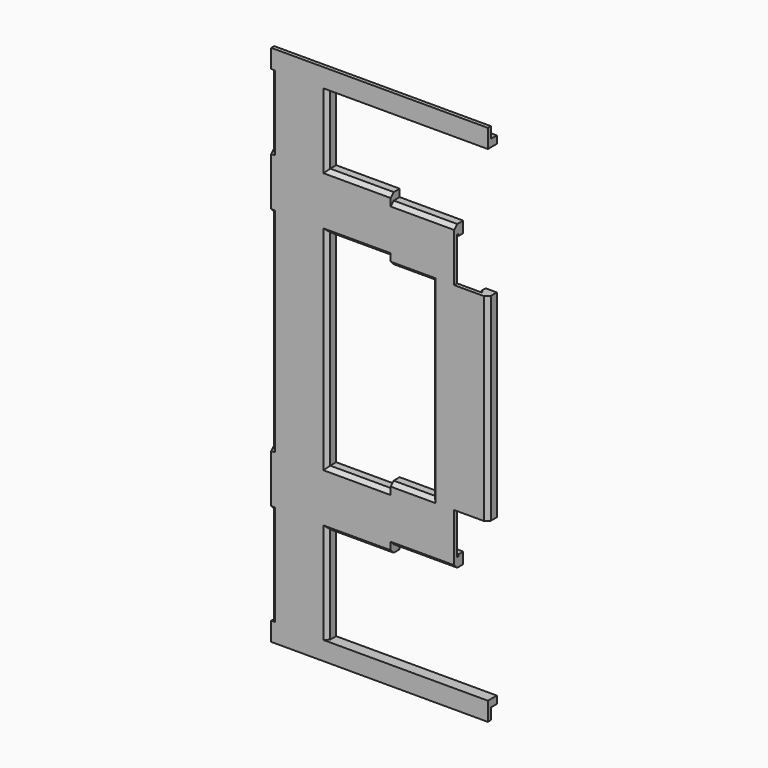
from build123d import *

# Parameters (mm, degrees)
PAD_DEPTH       = 140
SKETCH001_W     = 3
SKETCH001_H     = 5
PAD001_DEPTH    = 58
SKETCH002_W     = 2
SKETCH002_H     = 3
POCKET_DEPTH    = 58
SKETCH003_W     = 3
SKETCH003_H     = 5
PAD002_DEPTH    = 58
SKETCH004_W     = 2
SKETCH004_H     = 3
POCKET001_DEPTH = 58
PAD003_DEPTH    = 32
PAD004_DEPTH    = 32
PAD005_DEPTH    = 17
PAD006_DEPTH    = 17
PAD007_DEPTH    = 53
POCKET002_DEPTH = 134
POCKET003_DEPTH = 57
POCKET004_DEPTH = 32
POCKET005_DEPTH = 17
POCKET006_DEPTH = 17
POCKET007_DEPTH = 32


with BuildPart() as part:
    # Sketch → Pad (new body)
    with BuildSketch(Plane.XY):
        Polygon((0, 0), (15, 0), (15, -2), (14, -3), (1, -3), (0, -2), align=None)
    extrude(amount=PAD_DEPTH)

    # Sketch001 (on Face2 of Pad) → Pad001 (join)
    with BuildSketch(Plane.YZ):
        with Locations((-1.5, 137.5)):
            Rectangle(SKETCH001_W, SKETCH001_H)
    extrude(amount=PAD001_DEPTH)

    # Sketch002 (on Face15 of Pad001) → Pocket (cut)
    with BuildSketch(Plane.YZ.offset(58)):
        with Locations((-1, 138.5)):
            Rectangle(SKETCH002_W, SKETCH002_H)
    extrude(amount=-POCKET_DEPTH, mode=Mode.SUBTRACT)

    # Sketch003 (on Face3 of Pocket) → Pad002 (join)
    with BuildSketch(Plane.YZ):
        with Locations((-1.5, 2.5)):
            Rectangle(SKETCH003_W, SKETCH003_H)
    extrude(amount=PAD002_DEPTH)

    # Sketch004 (on Face9 of Pad002) → Pocket001 (cut)
    with BuildSketch(Plane.YZ.offset(58)):
        with Locations((-1, 1.5)):
            Rectangle(SKETCH004_W, SKETCH004_H)
    extrude(amount=-POCKET001_DEPTH, mode=Mode.SUBTRACT)

    # Sketch005 (on Face9 of Pocket001) → Pad003 (join)
    with BuildSketch(Plane.YZ):
        Polygon((0, 31), (-2, 31), (-3, 32), (-3, 45), (-2, 46), (0, 46), align=None)
    extrude(amount=PAD003_DEPTH)

    # Sketch006 (on Face30 of Pad003) → Pad004 (join)
    with BuildSketch(Plane.YZ):
        Polygon((0, 116), (0, 101), (-2, 101), (-3, 102), (-3, 115), (-2, 116), align=None)
    extrude(amount=PAD004_DEPTH)

    # Sketch007 (on Face28 of Pad004) → Pad005 (join)
    with BuildSketch(Plane.YZ.offset(32)):
        Polygon((0, 48), (0, 33), (-2, 33), (-3, 34), (-3, 47), (-2, 48), align=None)
    extrude(amount=PAD005_DEPTH)

    # Sketch008 (on Face56 of Pad005) → Pad006 (join)
    with BuildSketch(Plane.YZ.offset(32)):
        Polygon((-2, 114), (0, 114), (0, 99), (-2, 99), (-3, 100), (-3, 113), align=None)
    extrude(amount=PAD006_DEPTH)

    # Sketch009 (on Face40 of Pad006) → Pad007 (join)
    with BuildSketch(Plane.XY.offset(47)):
        Polygon((43, 0), (58, 0), (58, -2), (57, -3), (44, -3), (43, -2), align=None)
    extrude(amount=PAD007_DEPTH)

    # Sketch010 (on Face87 of Pad007) → Pocket002 (cut)
    with BuildSketch(Plane.XY.offset(137)):
        Polygon((2.5, -2), (12.5, -2), (12.5, -1.5), (12, -1.5), (12, 0), (3, 0), (3, -1.5), (2.5, -1.5), align=None)
    extrude(amount=-POCKET002_DEPTH, mode=Mode.SUBTRACT)

    # Sketch011 (on Face103 of Pocket002) → Pocket003 (cut)
    with BuildSketch(Plane.XY.offset(102)):
        Polygon((55.5, -2), (45.5, -2), (45.5, -1.5), (46, -1.5), (46, 0), (55, 0), (55, -1.5), (55.5, -1.5), align=None)
    extrude(amount=-POCKET003_DEPTH, mode=Mode.SUBTRACT)

    # Sketch012 (on Face112 of Pocket003) → Pocket004 (cut)
    with BuildSketch(Plane(origin=(0, 0, 0), x_dir=(0, -1, 0), z_dir=(-1, 0, 0))):
        Polygon((2, 113.5), (1.5, 113.5), (1.5, 113), (0, 113), (0, 104.04), (1.5, 104.04), (1.5, 103.5), (2, 103.5), align=None)
    extrude(amount=-POCKET004_DEPTH, mode=Mode.SUBTRACT)

    # Sketch013 (on Face70 of Pocket004) → Pocket005 (cut)
    with BuildSketch(Plane(origin=(32, 0, 0), x_dir=(0, -1, 0), z_dir=(-1, 0, 0))):
        Polygon((0, 111), (1.5, 111), (1.5, 111.5), (2, 111.5), (2, 101.5), (1.5, 101.5), (1.5, 102), (0, 102), align=None)
    extrude(amount=-POCKET005_DEPTH, mode=Mode.SUBTRACT)

    # Sketch014 (on Face59 of Pocket005) → Pocket006 (cut)
    with BuildSketch(Plane(origin=(32, 0, 0), x_dir=(0, -1, 0), z_dir=(-1, 0, 0))):
        Polygon((0, 45), (1.5, 45), (1.5, 45.5), (2, 45.5), (2, 35.5), (1.5, 35.5), (1.5, 36), (0, 36), align=None)
    extrude(amount=-POCKET006_DEPTH, mode=Mode.SUBTRACT)

    # Sketch015 (on Face127 of Pocket006) → Pocket007 (cut)
    with BuildSketch(Plane(origin=(0, 0, 0), x_dir=(0, -1, 0), z_dir=(-1, 0, 0))):
        Polygon((2, 33.5), (1.5, 33.5), (1.5, 34), (0, 34), (0, 43), (1.5, 43), (1.5, 43.5), (2, 43.5), align=None)
    extrude(amount=-POCKET007_DEPTH, mode=Mode.SUBTRACT)


solid = part.part
